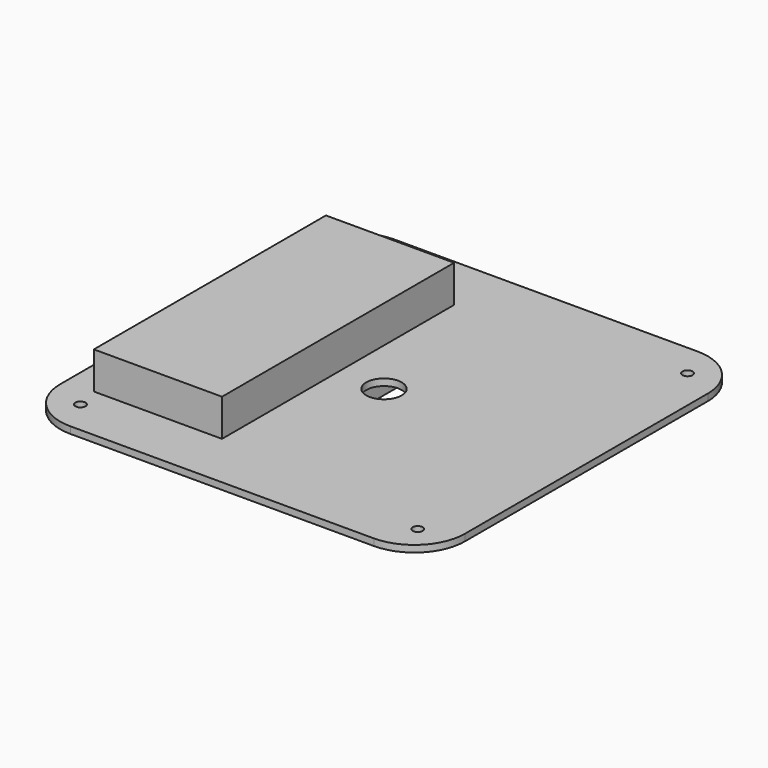
from build123d import *

# Parameters (mm, degrees)
F2_W     = 38
F2_H     = 86
F2_W_2   = 34
F2_H_2   = 82
F3_DEPTH = 13
F4_DEPTH = 11
F5_DEPTH = 11
F2_R     = 1.5
F2_R_2   = 5.25
F6_DEPTH = 2


with BuildPart() as f3:
    # F2 (on Top) → F3 (new body)
    with BuildSketch(Plane.XY):
        with Locations((-82.4976554215, 68.799585104)):
            Rectangle(F2_W, F2_H)
        with Locations((-82.4976554215, 68.799585104)):
            Rectangle(F2_W_2, F2_H_2, mode=Mode.SUBTRACT)
        with Locations((-82.4976554215, 68.799585104)):
            Rectangle(F2_W_2, F2_H_2)
    extrude(amount=F3_DEPTH)

    # F2 (on Top) → F4 (cut)
    with BuildSketch(Plane.XY):
        with Locations((-82.4976554215, 68.799585104)):
            Rectangle(F2_W_2, F2_H_2)
    extrude(amount=F4_DEPTH, mode=Mode.SUBTRACT)

    # F2 (on Top) → F5 (join)
    with BuildSketch(Plane.XY):
        with Locations((-82.4976554215, 68.799585104)):
            Rectangle(F2_W, F2_H)
        with Locations((-82.4976554215, 68.799585104)):
            Rectangle(F2_W_2, F2_H_2, mode=Mode.SUBTRACT)
    extrude(amount=-F5_DEPTH)

    # F2 (on Top) → F6 (join)
    with BuildSketch(Plane.XY):
        with BuildLine():
            Line((-94.8726554215, 8.799585104), (-4.8726554215, 8.799585104))
            ThreePointArc((-4.8726554215, 8.799585104), (5.7339462963, 13.1929833862), (10.1273445785, 23.799585104))
            Line((10.1273445785, 23.799585104), (10.1273445785, 113.799585104))
            ThreePointArc((10.1273445785, 113.799585104), (5.7339462963, 124.4061868218), (-4.8726554215, 128.799585104))
            Line((-4.8726554215, 128.799585104), (-94.8726554215, 128.799585104))
            ThreePointArc((-94.8726554215, 128.799585104), (-105.4792571393, 124.4061868218), (-109.8726554215, 113.799585104))
            Line((-109.8726554215, 113.799585104), (-109.8726554215, 23.799585104))
            ThreePointArc((-109.8726554215, 23.799585104), (-105.4792571393, 13.1929833862), (-94.8726554215, 8.799585104))
        make_face()
        with Locations((-99.8726554215, 18.799585104)):
            Circle(F2_R, mode=Mode.SUBTRACT)
        with Locations((0.1273445785, 18.799585104)):
            Circle(F2_R, mode=Mode.SUBTRACT)
        with Locations((-82.4976554215, 68.799585104)):
            Rectangle(F2_W, F2_H, mode=Mode.SUBTRACT)
        with Locations((-49.8726554215, 68.799585104)):
            Circle(F2_R_2, mode=Mode.SUBTRACT)
        with Locations((-99.8726554215, 118.799585104)):
            Circle(F2_R, mode=Mode.SUBTRACT)
        with Locations((0.1273445785, 118.799585104)):
            Circle(F2_R, mode=Mode.SUBTRACT)
    extrude(amount=F6_DEPTH)


solid = f3.part
